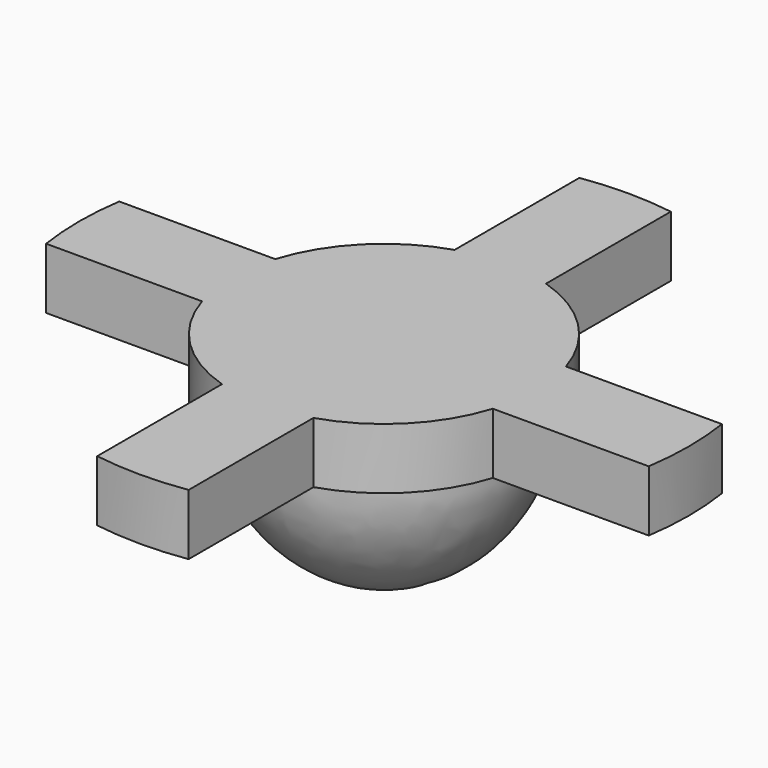
from build123d import *

# Parameters (mm, degrees)
F0_R     = 10
F1_DEPTH = 2
F3_DEPTH = 2.001
F6_W     = 6.3617299311
F6_H     = 2
F7_DEPTH = 1


with BuildPart() as f1:
    # F0 (on Top) → F1 (new body)
    with BuildSketch(Plane.XY):
        Circle(F0_R)
    extrude(amount=F1_DEPTH)

    # F2 (on face) → F3 (cut, through all)
    with BuildSketch(Plane.XY.offset(2)):
        with BuildLine():
            ThreePointArc((-4.7696960071, 1.5), (-3.5355339059, 3.5355339059), (-1.5, 4.7696960071))
            Line((-1.5, 4.7696960071), (-1.5, 9.8868599666))
            ThreePointArc((-1.5, 9.8868599666), (-7.0710678119, 7.0710678119), (-9.8868599666, 1.5))
            Line((-9.8868599666, 1.5), (-4.7696960071, 1.5))
        make_face()
        with BuildLine():
            ThreePointArc((1.5, 4.7696960071), (3.5355339059, 3.5355339059), (4.7696960071, 1.5))
            Line((4.7696960071, 1.5), (9.8868599666, 1.5))
            ThreePointArc((9.8868599666, 1.5), (7.0710678119, 7.0710678119), (1.5, 9.8868599666))
            Line((1.5, 9.8868599666), (1.5, 4.7696960071))
        make_face()
        with BuildLine():
            Line((9.8868599666, -1.5), (4.7696960071, -1.5))
            ThreePointArc((4.7696960071, -1.5), (3.5355339059, -3.5355339059), (1.5, -4.7696960071))
            Line((1.5, -4.7696960071), (1.5, -9.8868599666))
            ThreePointArc((1.5, -9.8868599666), (7.0710678119, -7.0710678119), (9.8868599666, -1.5))
        make_face()
        with BuildLine():
            Line((-1.5, -9.8868599666), (-1.5, -4.7696960071))
            ThreePointArc((-1.5, -4.7696960071), (-3.5355339059, -3.5355339059), (-4.7696960071, -1.5))
            Line((-4.7696960071, -1.5), (-9.8868599666, -1.5))
            ThreePointArc((-9.8868599666, -1.5), (-7.0710678119, -7.0710678119), (-1.5, -9.8868599666))
        make_face()
    extrude(amount=-F3_DEPTH, mode=Mode.SUBTRACT)

    # F4 (on Right) → F5 (revolve)
    with BuildSketch(Plane.YZ):
        with BuildLine():
            Line((4.5, 0), (0, 0))
            Line((0, 0), (0, -5))
            ThreePointArc((0, -5), (3.2165335145, -3.369880163), (4.5, 0))
        make_face()
    revolve(axis=Axis((0, 0, 2.0248414949), (0, 0, 1)))

    # F6 (on Front) → F7 (cut, symmetric)
    with BuildSketch(Plane.XZ):
        with Locations((0, -5.0499816425)):
            Rectangle(F6_W, F6_H)
    extrude(amount=F7_DEPTH, both=True, mode=Mode.SUBTRACT)


solid = f1.part
